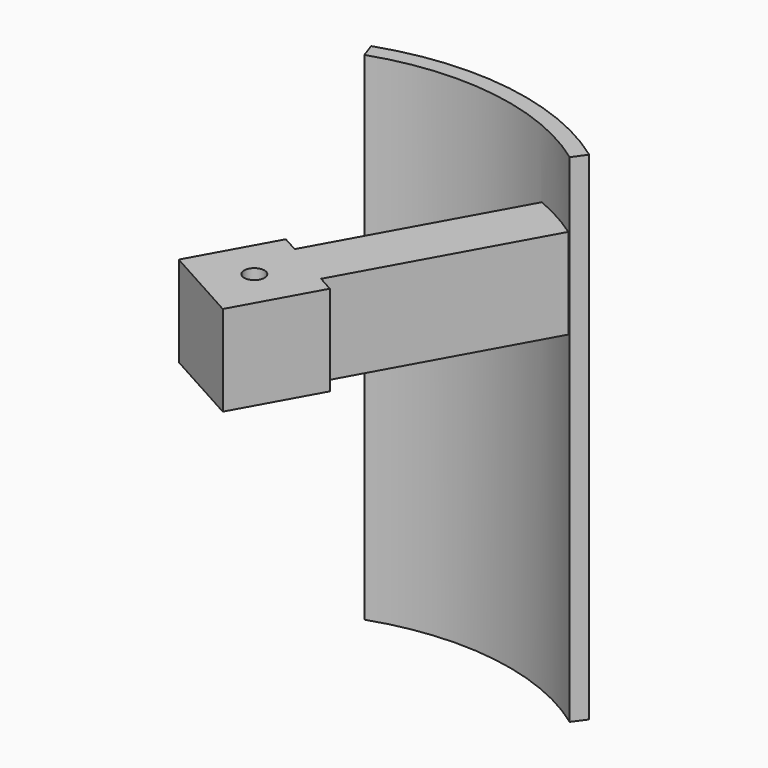
from build123d import *

# Parameters (mm, degrees)
PAD195_DEPTH              = 22
SKETCH282_W               = 4
SKETCH282_H               = 4
PAD191_DEPTH              = 13.5
SKETCH284_R               = 0.45
SKETCH284_W               = 0.8
SKETCH284_H               = 9.5
POCKET040_DEPTH           = 5
BODY055_PLACEMENT_ANGLE   = 90
FUSION006_PLACEMENT_ANGLE = 29


with BuildPart() as segment_wing006:
    # Sketch280 → Pad195 (new body)
    with BuildSketch(Plane.XY):
        with BuildLine():
            ThreePointArc((1.377124, 11.215772), (-3.957343, 10.584396), (-8.397537, 7.561176))
            Line((-8.397537, 7.561176), (-8.917738, 8.029567))
            ThreePointArc((1.462432, 11.910554), (-4.202489, 11.240066), (-8.917738, 8.029567))
            Line((1.377124, 11.215772), (1.462432, 11.910554))
        make_face()
    extrude(amount=PAD195_DEPTH)


with BuildPart() as segment_wing006_1:
    # Body058 placement: moved
    add(segment_wing006.part.moved(Location((0, 0, -9))))


with BuildPart() as segment_on006:
    # Sketch282 → Pad191 (new body)
    with BuildSketch(Plane.XY):
        with Locations((0, 6)):
            Rectangle(SKETCH282_W, SKETCH282_H)
    extrude(amount=PAD191_DEPTH)

    # Sketch284 (on Face1 of Pad191) → Pocket040 (cut)
    with BuildSketch(Plane(origin=(0, 8, 0), x_dir=(-1, 0, 0), z_dir=(0, 1, 0))):
        with Locations((0, 11.5)):
            Circle(SKETCH284_R)
        with Locations((-1.6, 4.75)):
            Rectangle(SKETCH284_W, SKETCH284_H)
        with Locations((1.6, 4.75)):
            Rectangle(SKETCH284_W, SKETCH284_H)
    extrude(amount=-POCKET040_DEPTH, mode=Mode.SUBTRACT)


with BuildPart() as segment_on006_1:
    # Body055 placement: moved
    add(segment_on006.part.moved(Location((0, 11.5, 2))).rotate(Axis((0, 11.5, 2), (1, 0, 0)), BODY055_PLACEMENT_ANGLE))

    # Fusion006: union Segment_Wing006
    add(segment_wing006_1.part)


with BuildPart() as segment_on006_2:
    # Fusion006 placement: moved
    add(segment_on006_1.part.rotate(Axis((0, 0, 0), (0, 0, -1)), FUSION006_PLACEMENT_ANGLE))


solid = segment_on006_2.part
